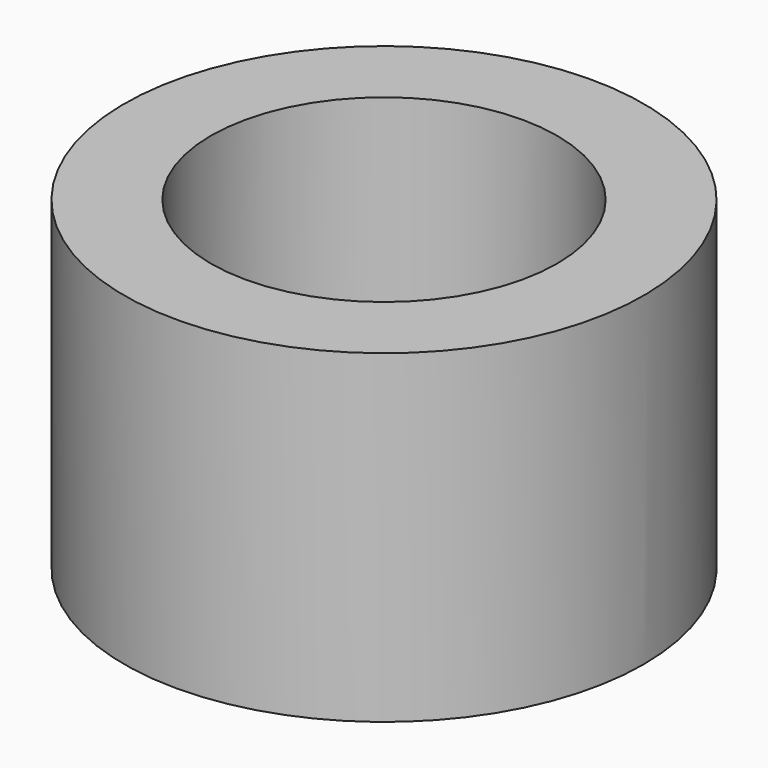
from build123d import *

# Parameters (mm, degrees)
CYLINDER024_R               = 5
CYLINDER024_DEPTH           = 2.5
CYLINDER019_R               = 12
CYLINDER019_DEPTH           = 2.5
CYLINDER027_R               = 8
CYLINDER027_DEPTH           = 12.5
CYLINDER026_R               = 12
CYLINDER026_DEPTH           = 12.5
CYLINDER026_PLACEMENT_ANGLE = 1


with BuildPart() as largeplughole:
    # Cylinder024 → Cylinder024 (new body)
    with BuildSketch(Plane.XY):
        Circle(CYLINDER024_R)
    extrude(amount=CYLINDER024_DEPTH)


with BuildPart() as largeplugbase001:
    # Cylinder019 → Cylinder019 (new body)
    with BuildSketch(Plane.XY):
        Circle(CYLINDER019_R)
    extrude(amount=CYLINDER019_DEPTH)

    # Cut008: cut LargePlugHole
    add(largeplughole.part, mode=Mode.SUBTRACT)


with BuildPart() as largeplugwallhole:
    # Cylinder027 → Cylinder027 (new body)
    with BuildSketch(Plane.XY.offset(2.5)):
        Circle(CYLINDER027_R)
    extrude(amount=CYLINDER027_DEPTH)


with BuildPart() as largeplug:
    # Cylinder026 → Cylinder026 (new body)
    with BuildSketch(Plane.XY):
        Circle(CYLINDER026_R)
    extrude(amount=CYLINDER026_DEPTH)


with BuildPart() as largeplug_1:
    # Cylinder026 placement: moved
    add(largeplug.part.moved(Location((0, 0, 2.5))).rotate(Axis((0, 0, 2.5), (0, 0, 1)), CYLINDER026_PLACEMENT_ANGLE))

    # Cut007: cut LargePlugWallHole
    add(largeplugwallhole.part, mode=Mode.SUBTRACT)

    # Fusion017: union LargePlugBase001
    add(largeplugbase001.part)


solid = largeplug_1.part
